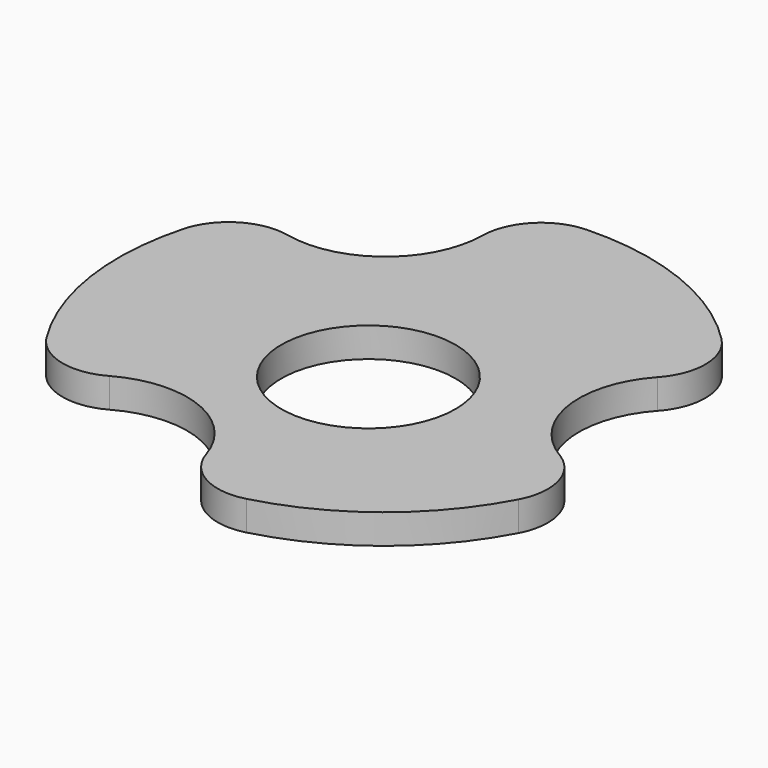
from build123d import *

# Parameters (mm, degrees)
F0_R     = 56.7715385185
F1_DEPTH = 6.35
F2_R     = 18.6477696788
F3_DEPTH = 25.4
F5_DEPTH = 25.4
F6_R     = 12.7


with BuildPart() as f1:
    # F0 (on Top) → F1 (new body)
    with BuildSketch(Plane.XY):
        Circle(F0_R)
    extrude(amount=F1_DEPTH)

    # F2 (on face) → F3 (cut)
    with BuildSketch(Plane.XY.offset(6.35)):
        with Locations((2.8365715407, -7.6775541529)):
            Circle(F2_R)
    extrude(amount=-F3_DEPTH, mode=Mode.SUBTRACT)

    # F4 (on face) → F5 (cut)
    with BuildSketch(Plane.XY.offset(6.35)):
        with BuildLine():
            ThreePointArc((-16.6661772977, 54.2701217987), (-35.2620612858, 44.4926355663), (-49.0286391406, 28.6216723792))
            ThreePointArc((-49.0286391406, 28.6216723792), (-22.2124908393, 28.0270699981), (-16.6661772977, 54.2701217987))
        make_face()
        with BuildLine():
            ThreePointArc((56.7715385185, 0), (54.8722368944, 14.5617720065), (49.3014149495, 28.1492108191))
            ThreePointArc((49.3014149495, 28.1492108191), (35.3784000316, 5.2230463491), (55.332392793, -12.7017279755))
            ThreePointArc((55.332392793, -12.7017279755), (56.4106047412, -6.391498924), (56.7715385185, 0))
        make_face()
        with BuildLine():
            ThreePointArc((-0.2727758089, -56.7708831983), (-13.1659091923, -33.2501163472), (-38.6662154953, -41.5683938231))
            ThreePointArc((-38.6662154953, -41.5683938231), (-20.9007220389, -52.7841586465), (-0.2727758089, -56.7708831983))
        make_face()
    extrude(amount=-F5_DEPTH, mode=Mode.SUBTRACT)

    # F6
    f6_edges = [f1.edges().sort_by_distance(p)[0] for p in [
        (-0.272776, -56.770883, 3.175),
        (-38.666215, -41.568394, 3.175),
        (49.301415, 28.149211, 3.175),
        (55.332393, -12.701728, 3.175),
        (-16.666177, 54.270122, 3.175),
        (-49.028639, 28.621672, 3.175),
    ]]
    fillet(f6_edges, radius=F6_R)


solid = f1.part
